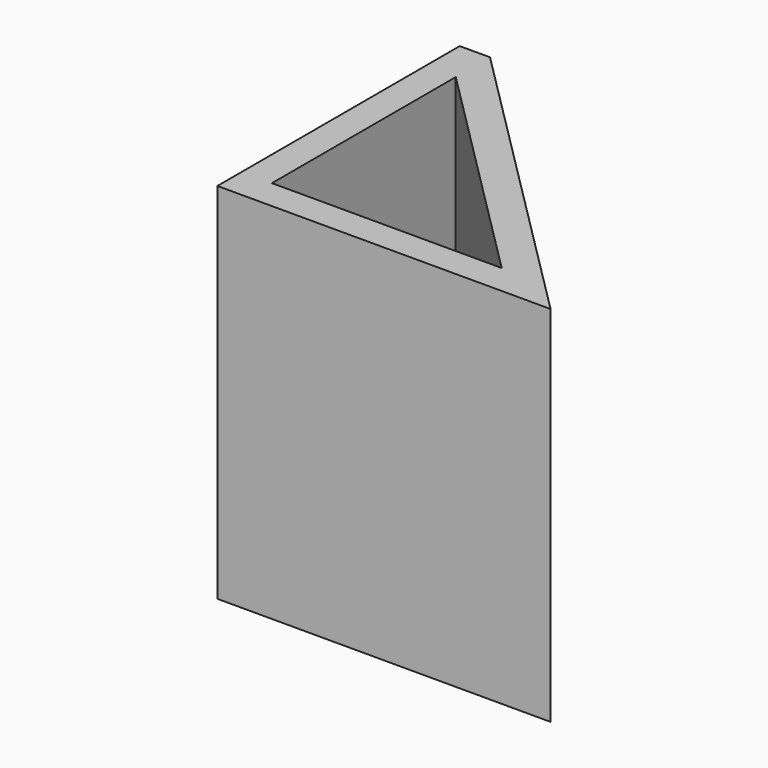
from build123d import *

# Parameters (mm, degrees)
F1_DEPTH = 60


with BuildPart() as f1:
    # F0 (on Top) → F1 (new body)
    with BuildSketch(Plane.XY):
        Polygon((-55, 0), (0, 0), (-50, 50), (-55, 50), align=None)
        Polygon((-50, 5), (-50, 42.928932), (-12.071068, 5), align=None, mode=Mode.SUBTRACT)
    extrude(amount=F1_DEPTH)


solid = f1.part
